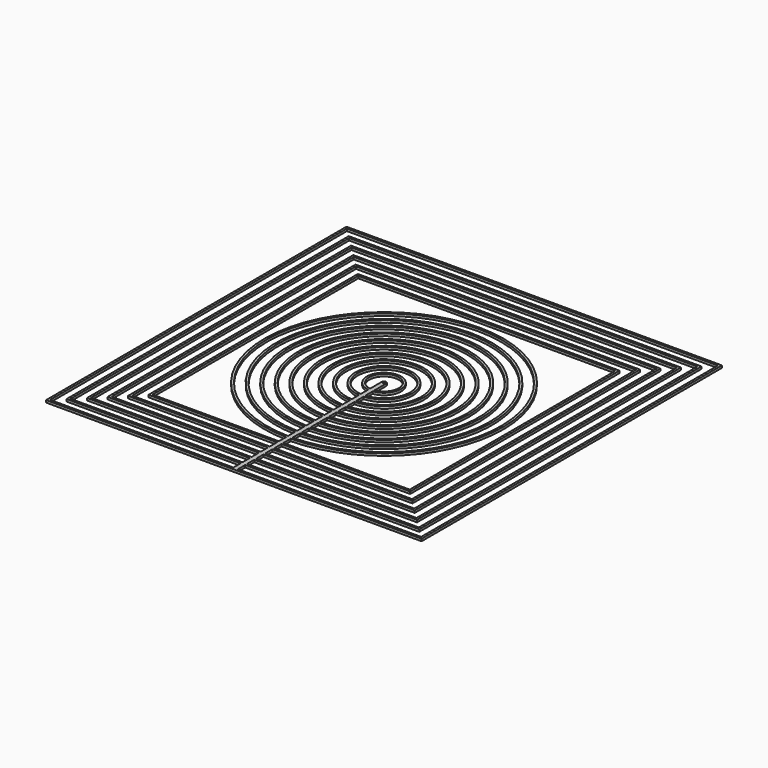
from build123d import *

# Parameters (mm, degrees)
F0_R     = 0.5
F0_W     = 2
F0_H     = 1
F0_H_2   = 4
F1_DEPTH = 1


with BuildPart() as f1:
    # F0 (on Top) → F1 (new body)
    with BuildSketch(Plane.XY):
        with BuildLine():
            Line((-1, -51.4902903468), (-1, -52.4904753265))
            ThreePointArc((-1, -52.4904753265), (0, -52.5), (1, -52.4904753265))
            Line((1, -52.4904753265), (1, -51.4902903468))
            ThreePointArc((1, -51.4902903468), (0, -51.5), (-1, -51.4902903468))
        make_face()
        with BuildLine():
            ThreePointArc((52.5, 0), (-36.7678528065, 37.4749916611), (-1, -52.4904753265))
            Line((-1, -52.4904753265), (-1, -51.4902903468))
            ThreePointArc((-1, -51.4902903468), (-36.060712694, 36.7678528065), (51.5, 0))
            ThreePointArc((51.5, 0), (36.7678528065, -36.060712694), (1, -51.4902903468))
            Line((1, -51.4902903468), (1, -52.4904753265))
            ThreePointArc((1, -52.4904753265), (37.4749916611, -36.7678528065), (52.5, 0))
        make_face()
        with BuildLine():
            Line((-1, -46.4892460683), (-1, -47.4894725176))
            ThreePointArc((-1, -47.4894725176), (0, -47.5), (1, -47.4894725176))
            Line((1, -47.4894725176), (1, -46.4892460683))
            ThreePointArc((1, -46.4892460683), (0, -46.5), (-1, -46.4892460683))
        make_face()
        with BuildLine():
            ThreePointArc((47.5, 0), (-33.2321380594, 33.9392840231), (-1, -47.4894725176))
            Line((-1, -47.4894725176), (-1, -46.4892460683))
            ThreePointArc((-1, -46.4892460683), (-32.524990392, 33.2321380594), (46.5, 0))
            ThreePointArc((46.5, 0), (33.2321380594, -32.524990392), (1, -46.4892460683))
            Line((1, -46.4892460683), (1, -47.4894725176))
            ThreePointArc((1, -47.4894725176), (33.9392840231, -33.2321380594), (47.5, 0))
        make_face()
        with BuildLine():
            Line((-1, -41.4879500578), (-1, -42.4882336653))
            ThreePointArc((-1, -42.4882336653), (0, -42.5), (1, -42.4882336653))
            Line((1, -42.4882336653), (1, -41.4879500578))
            ThreePointArc((1, -41.4879500578), (0, -41.5), (-1, -41.4879500578))
        make_face()
        with BuildLine():
            ThreePointArc((42.5, 0), (-29.6963802508, 30.4035359786), (-1, -42.4882336653))
            Line((-1, -42.4882336653), (-1, -41.4879500578))
            ThreePointArc((-1, -41.4879500578), (-28.9892221351, 29.6963802508), (41.5, 0))
            ThreePointArc((41.5, 0), (29.6963802508, -28.9892221351), (1, -41.4879500578))
            Line((1, -41.4879500578), (1, -42.4882336653))
            ThreePointArc((1, -42.4882336653), (30.4035359786, -29.6963802508), (42.5, 0))
        make_face()
        with BuildLine():
            Line((-1, -36.4862987983), (-1, -37.4866642955))
            ThreePointArc((-1, -37.4866642955), (0, -37.5), (1, -37.4866642955))
            Line((1, -37.4866642955), (1, -36.4862987983))
            ThreePointArc((1, -36.4862987983), (0, -36.5), (-1, -36.4862987983))
        make_face()
        with BuildLine():
            ThreePointArc((37.5, 0), (-26.1605619206, 26.8677315753), (-1, -37.4866642955))
            Line((-1, -37.4866642955), (-1, -36.4862987983))
            ThreePointArc((-1, -36.4862987983), (-25.4533887724, 26.1605619206), (36.5, 0))
            ThreePointArc((36.5, 0), (26.1605619206, -25.4533887724), (1, -36.4862987983))
            Line((1, -36.4862987983), (1, -37.4866642955))
            ThreePointArc((1, -37.4866642955), (26.8677315753, -26.1605619206), (37.5, 0))
        make_face()
        with BuildLine():
            Line((-1, -31.4841229829), (-1, -32.4846117416))
            ThreePointArc((-1, -32.4846117416), (0, -32.5), (1, -32.4846117416))
            Line((1, -32.4846117416), (1, -31.4841229829))
            ThreePointArc((1, -31.4841229829), (0, -31.5), (-1, -31.4841229829))
        make_face()
        with BuildLine():
            ThreePointArc((32.5, 0), (-22.6246546935, 23.3318451906), (-1, -32.4846117416))
            Line((-1, -32.4846117416), (-1, -31.4841229829))
            ThreePointArc((-1, -31.4841229829), (-21.9174587943, 22.6246546935), (31.5, 0))
            ThreePointArc((31.5, 0), (22.6246546935, -21.9174587943), (1, -31.4841229829))
            Line((1, -31.4841229829), (1, -32.4846117416))
            ThreePointArc((1, -32.4846117416), (23.3318451906, -22.6246546935), (32.5, 0))
        make_face()
        with BuildLine():
            Line((-1, -26.4811253537), (-1, -27.4818121673))
            ThreePointArc((-1, -27.4818121673), (0, -27.5), (1, -27.4818121673))
            Line((1, -27.4818121673), (1, -26.4811253537))
            ThreePointArc((1, -26.4811253537), (0, -26.5), (-1, -26.4811253537))
        make_face()
        with BuildLine():
            ThreePointArc((27.5, 0), (-19.0886091688, 19.7958328948), (-1, -27.4818121673))
            Line((-1, -27.4818121673), (-1, -26.4811253537))
            ThreePointArc((-1, -26.4811253537), (-18.3813764447, 19.0886091688), (26.5, 0))
            ThreePointArc((26.5, 0), (19.0886091688, -18.3813764447), (1, -26.4811253537))
            Line((1, -26.4811253537), (1, -27.4818121673))
            ThreePointArc((1, -27.4818121673), (19.7958328948, -19.0886091688), (27.5, 0))
        make_face()
        with BuildLine():
            Line((-1, -21.4767315949), (-1, -22.477766793))
            ThreePointArc((-1, -22.477766793), (0, -22.5), (1, -22.477766793))
            Line((1, -22.477766793), (1, -21.4767315949))
            ThreePointArc((1, -21.4767315949), (0, -21.5), (-1, -21.4767315949))
        make_face()
        with BuildLine():
            ThreePointArc((22.5, 0), (-15.552331015, 16.2596125415), (-1, -22.477766793))
            Line((-1, -22.477766793), (-1, -21.4767315949))
            ThreePointArc((-1, -21.4767315949), (-14.8450328393, 15.552331015), (21.5, 0))
            ThreePointArc((21.5, 0), (15.552331015, -14.8450328393), (1, -21.4767315949))
            Line((1, -21.4767315949), (1, -22.477766793))
            ThreePointArc((1, -22.477766793), (16.2596125415, -15.552331015), (22.5, 0))
        make_face()
        with BuildLine():
            Line((-1, -16.469669092), (-1, -17.4714052097))
            ThreePointArc((-1, -17.4714052097), (0, -17.5), (1, -17.4714052097))
            Line((1, -17.4714052097), (1, -16.469669092))
            ThreePointArc((1, -16.469669092), (0, -16.5), (-1, -16.469669092))
        make_face()
        with BuildLine():
            ThreePointArc((17.5, 0), (-12.0156148407, 12.72301065), (-1, -17.4714052097))
            Line((-1, -17.4714052097), (-1, -16.469669092))
            ThreePointArc((-1, -16.469669092), (-11.3081828779, 12.0156148407), (16.5, 0))
            ThreePointArc((16.5, 0), (12.0156148407, -11.3081828779), (1, -16.469669092))
            Line((1, -16.469669092), (1, -17.4714052097))
            ThreePointArc((1, -17.4714052097), (12.72301065, -12.0156148407), (17.5, 0))
        make_face()
        with BuildLine():
            Line((-1, -11.4564392374), (-1, -12.4599357944))
            ThreePointArc((-1, -12.4599357944), (0, -12.5), (1, -12.4599357944))
            Line((1, -12.4599357944), (1, -11.4564392374))
            ThreePointArc((1, -11.4564392374), (0, -11.5), (-1, -11.4564392374))
        make_face()
        with BuildLine():
            ThreePointArc((12.5, 0), (-8.4779124789, 9.1855865354), (-1, -12.4599357944))
            Line((-1, -12.4599357944), (-1, -11.4564392374))
            ThreePointArc((-1, -11.4564392374), (-7.770135134, 8.4779124789), (11.5, 0))
            ThreePointArc((11.5, 0), (8.4779124789, -7.770135134), (1, -11.4564392374))
            Line((1, -11.4564392374), (1, -12.4599357944))
            ThreePointArc((1, -12.4599357944), (9.1855865354, -8.4779124789), (12.5, 0))
        make_face()
        with BuildLine():
            Line((-1, -6.4226162893), (-1, -7.4330343737))
            ThreePointArc((-1, -7.4330343737), (0, -7.5), (1, -7.4330343737))
            Line((1, -7.4330343737), (1, -6.4226162893))
            ThreePointArc((1, -6.4226162893), (0, -6.5), (-1, -6.4226162893))
        make_face()
        with BuildLine():
            ThreePointArc((7.5, 0), (-4.9371044145, 5.6457948953), (-1, -7.4330343737))
            Line((-1, -7.4330343737), (-1, -6.4226162893))
            ThreePointArc((-1, -6.4226162893), (-4.2278836313, 4.9371044145), (6.5, 0))
            ThreePointArc((6.5, 0), (4.9371044145, -4.2278836313), (1, -6.4226162893))
            Line((1, -6.4226162893), (1, -7.4330343737))
            ThreePointArc((1, -7.4330343737), (5.6457948953, -4.9371044145), (7.5, 0))
        make_face()
        with BuildLine():
            ThreePointArc((1, 0), (0, 1), (-1, 0))
            ThreePointArc((-1, 0), (0, -1), (1, 0))
        make_face()
        Circle(F0_R, mode=Mode.SUBTRACT)
        with BuildLine():
            Line((-1, 0), (-1, -6.4226162893))
            ThreePointArc((-1, -6.4226162893), (0, -6.5), (1, -6.4226162893))
            Line((1, -6.4226162893), (1, 0))
            ThreePointArc((1, 0), (0, -1), (-1, 0))
        make_face()
        with BuildLine():
            Line((-1, -7.4330343737), (-1, -11.4564392374))
            ThreePointArc((-1, -11.4564392374), (0, -11.5), (1, -11.4564392374))
            Line((1, -11.4564392374), (1, -7.4330343737))
            ThreePointArc((1, -7.4330343737), (0, -7.5), (-1, -7.4330343737))
        make_face()
        with BuildLine():
            Line((-1, -12.4599357944), (-1, -16.469669092))
            ThreePointArc((-1, -16.469669092), (0, -16.5), (1, -16.469669092))
            Line((1, -16.469669092), (1, -12.4599357944))
            ThreePointArc((1, -12.4599357944), (0, -12.5), (-1, -12.4599357944))
        make_face()
        with BuildLine():
            Line((-1, -17.4714052097), (-1, -21.4767315949))
            ThreePointArc((-1, -21.4767315949), (0, -21.5), (1, -21.4767315949))
            Line((1, -21.4767315949), (1, -17.4714052097))
            ThreePointArc((1, -17.4714052097), (0, -17.5), (-1, -17.4714052097))
        make_face()
        with BuildLine():
            Line((-1, -22.477766793), (-1, -26.4811253537))
            ThreePointArc((-1, -26.4811253537), (0, -26.5), (1, -26.4811253537))
            Line((1, -26.4811253537), (1, -22.477766793))
            ThreePointArc((1, -22.477766793), (0, -22.5), (-1, -22.477766793))
        make_face()
        with BuildLine():
            Line((-1, -27.4818121673), (-1, -31.4841229829))
            ThreePointArc((-1, -31.4841229829), (0, -31.5), (1, -31.4841229829))
            Line((1, -31.4841229829), (1, -27.4818121673))
            ThreePointArc((1, -27.4818121673), (0, -27.5), (-1, -27.4818121673))
        make_face()
        with BuildLine():
            Line((-1, -32.4846117416), (-1, -36.4862987983))
            ThreePointArc((-1, -36.4862987983), (0, -36.5), (1, -36.4862987983))
            Line((1, -36.4862987983), (1, -32.4846117416))
            ThreePointArc((1, -32.4846117416), (0, -32.5), (-1, -32.4846117416))
        make_face()
        with BuildLine():
            Line((-1, -37.4866642955), (-1, -41.4879500578))
            ThreePointArc((-1, -41.4879500578), (0, -41.5), (1, -41.4879500578))
            Line((1, -41.4879500578), (1, -37.4866642955))
            ThreePointArc((1, -37.4866642955), (0, -37.5), (-1, -37.4866642955))
        make_face()
        with BuildLine():
            Line((-1, -42.4882336653), (-1, -46.4892460683))
            ThreePointArc((-1, -46.4892460683), (0, -46.5), (1, -46.4892460683))
            Line((1, -46.4892460683), (1, -42.4882336653))
            ThreePointArc((1, -42.4882336653), (0, -42.5), (-1, -42.4882336653))
        make_face()
        with BuildLine():
            Line((-1, -47.4894725176), (-1, -51.4902903468))
            ThreePointArc((-1, -51.4902903468), (0, -51.5), (1, -51.4902903468))
            Line((1, -51.4902903468), (1, -47.4894725176))
            ThreePointArc((1, -47.4894725176), (0, -47.5), (-1, -47.4894725176))
        make_face()
        with BuildLine():
            Line((-1, -52.4904753265), (-1, -56.5))
            Line((-1, -56.5), (1, -56.5))
            Line((1, -56.5), (1, -52.4904753265))
            ThreePointArc((1, -52.4904753265), (0, -52.5), (-1, -52.4904753265))
        make_face()
        with Locations((0, -57)):
            Rectangle(F0_W, F0_H)
        with Locations((0, -59.5)):
            Rectangle(F0_W, F0_H_2)
        with Locations((0, -62)):
            Rectangle(F0_W, F0_H)
        with Locations((0, -64.5)):
            Rectangle(F0_W, F0_H_2)
        with Locations((0, -67)):
            Rectangle(F0_W, F0_H)
        with Locations((0, -69.5)):
            Rectangle(F0_W, F0_H_2)
        with Locations((0, -72)):
            Rectangle(F0_W, F0_H)
        with Locations((0, -74.5)):
            Rectangle(F0_W, F0_H_2)
        with Locations((0, -77)):
            Rectangle(F0_W, F0_H)
        with Locations((0, -79.5)):
            Rectangle(F0_W, F0_H_2)
        with Locations((0, -82)):
            Rectangle(F0_W, F0_H)
        Polygon((-1, -81.5), (-81.5, -81.5), (-81.5, 81.5), (81.5, 81.5), (81.5, -81.5), (1, -81.5), (1, -82.5), (82.5, -82.5), (82.5, 82.5), (-82.5, 82.5), (-82.5, -82.5), (-1, -82.5), align=None)
        Polygon((-77.5, -77.5), (-1, -77.5), (-1, -76.5), (-76.5, -76.5), (-76.5, 76.5), (76.5, 76.5), (76.5, -76.5), (1, -76.5), (1, -77.5), (77.5, -77.5), (77.5, 77.5), (-77.5, 77.5), align=None)
        Polygon((-72.5, -72.5), (-1, -72.5), (-1, -71.5), (-71.5, -71.5), (-71.5, 71.5), (71.5, 71.5), (71.5, -71.5), (1, -71.5), (1, -72.5), (72.5, -72.5), (72.5, 72.5), (-72.5, 72.5), align=None)
        Polygon((-67.5, -67.5), (-1, -67.5), (-1, -66.5), (-66.5, -66.5), (-66.5, 66.5), (66.5, 66.5), (66.5, -66.5), (1, -66.5), (1, -67.5), (67.5, -67.5), (67.5, 67.5), (-67.5, 67.5), align=None)
        Polygon((-62.5, -62.5), (-1, -62.5), (-1, -61.5), (-61.5, -61.5), (-61.5, 61.5), (61.5, 61.5), (61.5, -61.5), (1, -61.5), (1, -62.5), (62.5, -62.5), (62.5, 62.5), (-62.5, 62.5), align=None)
        Polygon((-57.5, -57.5), (-1, -57.5), (-1, -56.5), (-56.5, -56.5), (-56.5, 56.5), (56.5, 56.5), (56.5, -56.5), (1, -56.5), (1, -57.5), (57.5, -57.5), (57.5, 57.5), (-57.5, 57.5), align=None)
    extrude(amount=F1_DEPTH)


solid = f1.part
